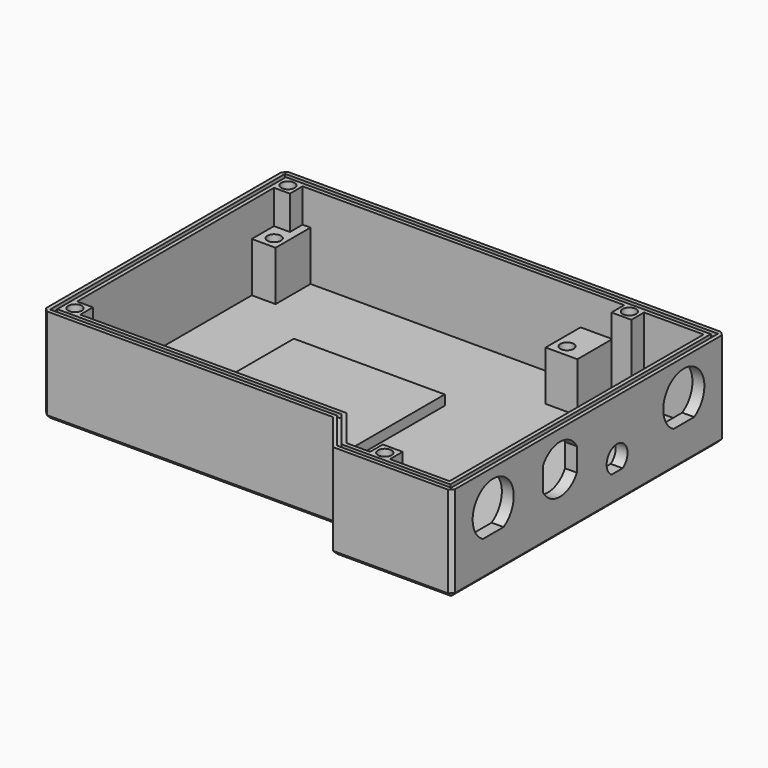
from build123d import *

# Parameters (mm, degrees)
PAD_DEPTH       = 24
POCKET_DEPTH    = 21
POCKET003_DEPTH = 1
POCKET004_DEPTH = 1
POCKET005_DEPTH = 5
SKETCH015_W     = 6
SKETCH015_H     = 11
SKETCH015_W_2   = 8
PAD006_DEPTH    = 12.5
SKETCH012_W     = 4
SKETCH012_H     = 4
SKETCH012_W_2   = 5
PAD007_DEPTH    = 21
POCKET006_DEPTH = 1
SKETCH016_R     = 1.7
HOLE_DEPTH      = 12.5
SKETCH017_R     = 1.7
HOLE001_DEPTH   = 21
CHAMFER_SIZE    = 1
SKETCH018_W     = 38
SKETCH018_H     = 39
PAD008_DEPTH    = 2.5


with BuildPart() as part:
    # Sketch → Pad (new body)
    with BuildSketch(Plane.XY):
        Polygon((-3, -6), (70, -6), (78, -16), (108, -16), (108, 70), (-3, 70), align=None)
    extrude(amount=PAD_DEPTH)

    # Sketch001 (on Face8 of Pad) → Pocket (cut)
    with BuildSketch(Plane.XY.offset(24)):
        Polygon((0, 67), (0, -3), (71, -3), (79, -13), (105, -13), (105, 67), align=None)
    extrude(amount=-POCKET_DEPTH, mode=Mode.SUBTRACT)

    # Sketch008 → Pocket003 (cut)
    with BuildSketch(Plane(origin=(0, 0, 0), x_dir=(1, 0, 0), z_dir=(0, 0, -1))):
        with BuildLine():
            ThreePointArc((91, 10), (88.5, 12.5), (86, 10))
            Line((86, 10), (86, -70))
            Line((86, -70), (91, -70))
            Line((91, 10), (91, -70))
        make_face()
        with BuildLine():
            ThreePointArc((101, 10), (98.5, 12.5), (96, 10))
            Line((96, 10), (96, -70))
            Line((96, -70), (101, -70))
            Line((101, 10), (101, -70))
        make_face()
        with BuildLine():
            ThreePointArc((71, 0), (68.5, 2.5), (66, 0))
            Line((66, 0), (66, -70))
            Line((66, -70), (71, -70))
            Line((71, 0), (71, -70))
        make_face()
        with BuildLine():
            ThreePointArc((81, 5), (78.5, 7.5), (76, 5))
            Line((76, 5), (76, -70))
            Line((76, -70), (81, -70))
            Line((81, 5), (81, -70))
        make_face()
        with BuildLine():
            ThreePointArc((41, 0), (38.5, 2.5), (36, 0))
            Line((36, 0), (36, -70))
            Line((36, -70), (41, -70))
            Line((41, 0), (41, -70))
        make_face()
        with BuildLine():
            ThreePointArc((61, 0), (58.5, 2.5), (56, 0))
            Line((56, 0), (56, -70))
            Line((56, -70), (61, -70))
            Line((61, 0), (61, -70))
        make_face()
        with BuildLine():
            ThreePointArc((31, 0), (28.5, 2.5), (26, 0))
            Line((26, 0), (26, -70))
            Line((26, -70), (31, -70))
            Line((31, 0), (31, -70))
        make_face()
        with BuildLine():
            ThreePointArc((21, 0), (18.5, 2.5), (16, 0))
            Line((16, 0), (16, -70))
            Line((16, -70), (21, -70))
            Line((21, 0), (21, -70))
        make_face()
        with BuildLine():
            ThreePointArc((51, 0), (48.5, 2.5), (46, 0))
            Line((46, 0), (46, -70))
            Line((46, -70), (51, -70))
            Line((51, 0), (51, -70))
        make_face()
        with BuildLine():
            ThreePointArc((11, 0), (8.5, 2.5), (6, 0))
            Line((6, 0), (6, -70))
            Line((6, -70), (11, -70))
            Line((11, 0), (11, -70))
        make_face()
    extrude(amount=-POCKET003_DEPTH, mode=Mode.SUBTRACT)

    # Sketch009 (on Face6 of Pocket003) → Pocket004 (cut)
    with BuildSketch(Plane(origin=(0, 70, 0), x_dir=(-1, 0, 0), z_dir=(0, 1, 0))):
        with BuildLine():
            ThreePointArc((-96, 18), (-98.5, 20.5), (-101, 18))
            Line((-101, 18), (-101, 0))
            Line((-101, 0), (-96, 0))
            Line((-96, 18), (-96, 0))
        make_face()
        with BuildLine():
            ThreePointArc((-86, 18), (-88.5, 20.5), (-91, 18))
            Line((-91, 18), (-91, 0))
            Line((-91, 0), (-86, 0))
            Line((-86, 18), (-86, 0))
        make_face()
        with BuildLine():
            ThreePointArc((-56, 18), (-58.5, 20.5), (-61, 18))
            Line((-61, 18), (-61, 0))
            Line((-61, 0), (-56, 0))
            Line((-56, 18), (-56, 0))
        make_face()
        with BuildLine():
            ThreePointArc((-76, 18), (-78.5, 20.5), (-81, 18))
            Line((-81, 18), (-81, 0))
            Line((-81, 0), (-76, 0))
            Line((-76, 18), (-76, 0))
        make_face()
        with BuildLine():
            ThreePointArc((-46, 18), (-48.5, 20.5), (-51, 18))
            Line((-51, 18), (-51, 0))
            Line((-51, 0), (-46, 0))
            Line((-46, 18), (-46, 0))
        make_face()
        with BuildLine():
            ThreePointArc((-36, 18), (-38.5, 20.5), (-41, 18))
            Line((-41, 18), (-41, 0))
            Line((-41, 0), (-36, 0))
            Line((-36, 18), (-36, 0))
        make_face()
        with BuildLine():
            ThreePointArc((-26, 18), (-28.5, 20.5), (-31, 18))
            Line((-31, 18), (-31, 0))
            Line((-31, 0), (-26, 0))
            Line((-26, 18), (-26, 0))
        make_face()
        with BuildLine():
            ThreePointArc((-16, 18), (-18.5, 20.5), (-21, 18))
            Line((-21, 18), (-21, 0))
            Line((-21, 0), (-16, 0))
            Line((-16, 18), (-16, 0))
        make_face()
        with BuildLine():
            ThreePointArc((-6, 18), (-8.5, 20.5), (-11, 18))
            Line((-11, 18), (-11, 0))
            Line((-11, 0), (-6, 0))
            Line((-6, 18), (-6, 0))
        make_face()
        with BuildLine():
            ThreePointArc((-66, 18), (-68.5, 20.5), (-71, 18))
            Line((-71, 18), (-71, 0))
            Line((-71, 0), (-66, 0))
            Line((-66, 18), (-66, 0))
        make_face()
    extrude(amount=-POCKET004_DEPTH, mode=Mode.SUBTRACT)

    # Sketch014 (on Face38 of Pocket003) → Pocket005 (cut)
    with BuildSketch(Plane.YZ.offset(108)):
        with BuildLine():
            ThreePointArc((0.25908, 9.405), (-3, 21.475), (-6.25908, 9.405))
            Line((-6.25908, 9.405), (0.25908, 9.405))
        make_face()
        with BuildLine():
            ThreePointArc((60.25908, 9.405), (57, 21.475), (53.74092, 9.405))
            Line((53.74092, 9.405), (60.25908, 9.405))
        make_face()
        with BuildLine():
            ThreePointArc((37.746425, 7.2), (36, 13.3), (34.253575, 7.2))
            Line((37.746425, 7.2), (34.253575, 7.2))
        make_face()
        with BuildLine():
            ThreePointArc((12.65, 12.069556), (18, 8.9), (23.35, 12.069556))
            Line((23.35, 17.930444), (23.35, 12.069556))
            ThreePointArc((23.35, 17.930444), (18, 21.1), (12.65, 17.930444))
            Line((12.65, 17.930444), (12.65, 12.069556))
        make_face()
    extrude(amount=-POCKET005_DEPTH, mode=Mode.SUBTRACT)

    # Sketch015 → Pad006 (join)
    with BuildSketch(Plane.XY.offset(3)):
        with Locations((3, 61.5)):
            Rectangle(SKETCH015_W, SKETCH015_H)
        with Locations((78, 61.5)):
            Rectangle(SKETCH015_W_2, SKETCH015_H)
    extrude(amount=PAD006_DEPTH)

    # Sketch012 → Pad007 (join)
    with BuildSketch(Plane.XY.offset(3)):
        with Locations((2, 65)):
            Rectangle(SKETCH012_W, SKETCH012_H)
        with Locations((87.5, 65)):
            Rectangle(SKETCH012_W_2, SKETCH012_H)
        with Locations((87.5, -11)):
            Rectangle(SKETCH012_W_2, SKETCH012_H)
        with Locations((2, -1)):
            Rectangle(SKETCH012_W, SKETCH012_H)
    extrude(amount=PAD007_DEPTH)

    # Sketch006 → Pocket006 (cut)
    with BuildSketch(Plane.XY.offset(24)):
        Polygon((-2, 69), (107, 69), (107, -15), (78.3, -15), (70.3, -5), (-2, -5), align=None)
        Polygon((-1, 68), (106, 68), (106, -14), (78.6, -14), (70.6, -4), (-1, -4), align=None, mode=Mode.SUBTRACT)
    extrude(amount=-POCKET006_DEPTH, mode=Mode.SUBTRACT)

    # Sketch016 (on Face8 of Pocket006) → Hole (cut)
    with BuildSketch(Plane.XY.offset(15.5)):
        with Locations((3.25, 59)):
            Circle(SKETCH016_R)
        with Locations((77, 59)):
            Circle(SKETCH016_R)
    extrude(amount=-HOLE_DEPTH, mode=Mode.SUBTRACT)

    # Sketch017 (on Face56 of Hole) → Hole001 (cut)
    with BuildSketch(Plane.XY.offset(24)):
        with Locations((1.5, 65.5)):
            Circle(SKETCH017_R)
        with Locations((87.5, 65.5)):
            Circle(SKETCH017_R)
        with Locations((87.5, -11.5)):
            Circle(SKETCH017_R)
        with Locations((1.5, -1.5)):
            Circle(SKETCH017_R)
    extrude(amount=-HOLE001_DEPTH, mode=Mode.SUBTRACT)

    # Chamfer
    chamfer_edges = [part.edges().sort_by_distance(p)[0] for p in [
        (-3, 70, 12),
        (-3, -6, 12),
        (-3, 32, 0),
        (33.5, -6, 0),
        (1.5, 70, 0),
        (8.5, 69, 1),
        (13.5, 70, 0),
        (18.5, 69, 1),
        (23.5, 70, 0),
        (33.5, 70, 0),
        (28.5, 69, 1),
        (104.5, 70, 0),
        (108, 70, 12),
        (98.5, 69, 1),
        (93.5, 70, 0),
        (88.5, 69, 1),
        (83.5, 70, 0),
        (78.5, 69, 1),
        (73.5, 70, 0),
        (68.5, 69, 1),
        (63.5, 70, 0),
        (58.5, 69, 1),
        (53.5, 70, 0),
        (48.5, 69, 1),
        (43.5, 70, 0),
        (38.5, 69, 1),
        (108, 27, 0),
        (108, -16, 12),
        (93, -16, 0),
        (74, -11, 0),
    ]]
    chamfer(chamfer_edges, length=CHAMFER_SIZE)

    # Sketch018 (on Face93 of Chamfer) → Pad008 (join)
    with BuildSketch(Plane.XY.offset(3)):
        with Locations((40, 23.5)):
            Rectangle(SKETCH018_W, SKETCH018_H)
    extrude(amount=PAD008_DEPTH)


with BuildPart() as part_1:
    # Body placement: moved
    add(part.part.moved(Location((0, 0, -2.5))))


solid = part_1.part
